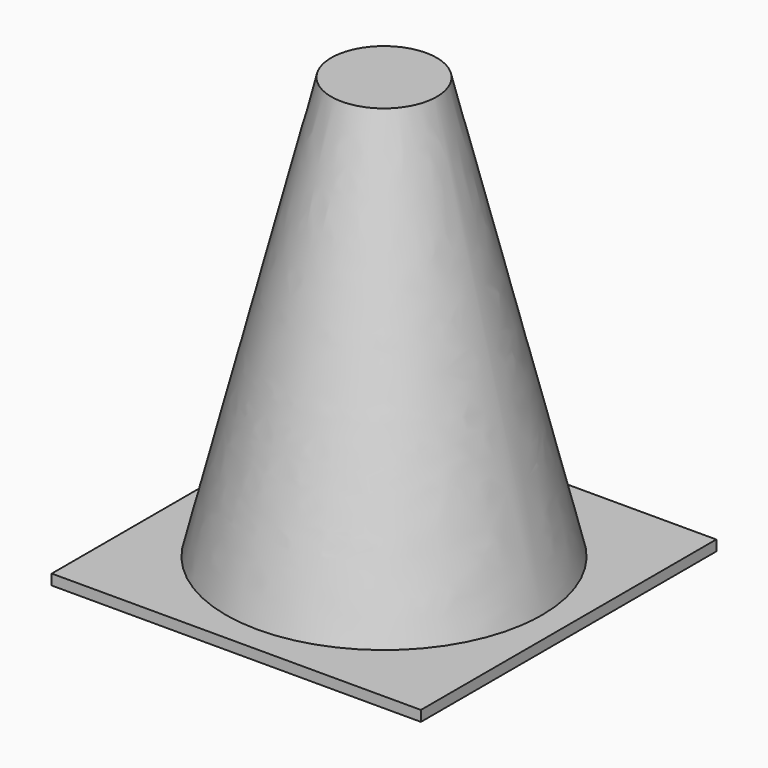
from build123d import *

# Parameters (mm, degrees)
F0_R      = 15
F2_R      = 12.5
F4_R      = 10
F6_R      = 7.5
F8_R      = 5
F10_W     = 35
F10_H     = 35
F11_DEPTH = 1


with BuildPart() as f9:
    # F0 (on Top) → F9 section 0
    with BuildSketch(Plane.XY):
        Circle(F0_R)
    # F2 (on offset) → F9 section 1
    with BuildSketch(Plane.XY.offset(10)):
        Circle(F2_R)
    # F4 (on offset) → F9 section 2
    with BuildSketch(Plane.XY.offset(20)):
        Circle(F4_R)
    # F6 (on offset) → F9 section 3
    with BuildSketch(Plane.XY.offset(30)):
        Circle(F6_R)
    # F8 (on offset) → F9 section 4
    with BuildSketch(Plane.XY.offset(40)):
        Circle(F8_R)
    loft()

    # F10 (on Top) → F11 (join)
    with BuildSketch(Plane.XY):
        Rectangle(F10_W, F10_H)
    extrude(amount=-F11_DEPTH)


solid = f9.part
